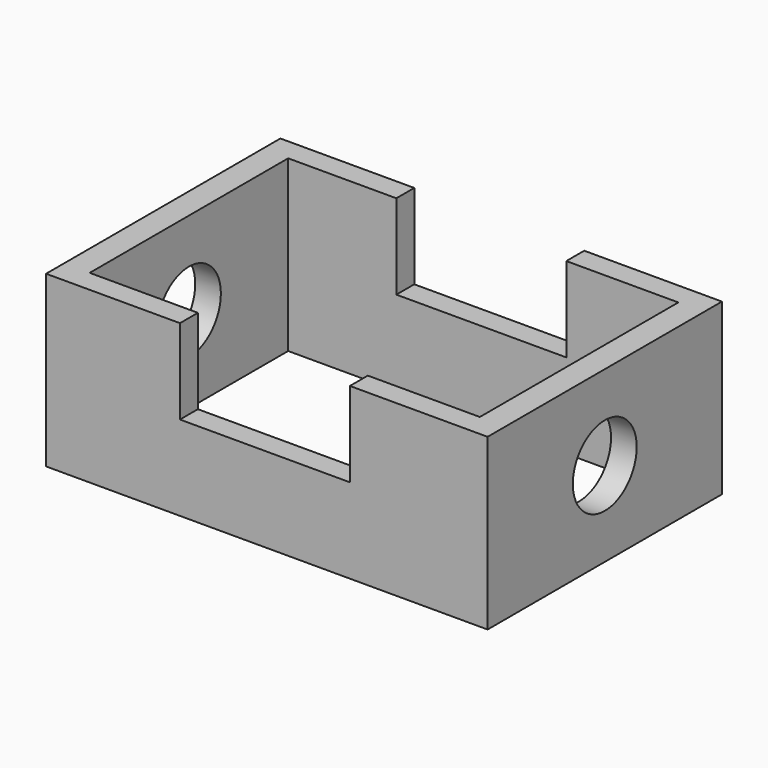
from build123d import *

# Parameters (mm, degrees)
F0_W     = 198.306992
F0_H     = 131.550192
F1_DEPTH = 76.2
F2_W     = 175.236628
F2_H     = 111.424976
F3_DEPTH = 76.201
F4_R     = 17.935486
F5_DEPTH = 198.307993
F6_W     = 76.328561
F6_H     = 10.062608
F7_DEPTH = 38.1


with BuildPart() as f1:
    # F0 (on Top) → F1 (new body)
    with BuildSketch(Plane.XY):
        Rectangle(F0_W, F0_H)
    extrude(amount=F1_DEPTH)

    # F2 (on face) → F3 (cut, through all)
    with BuildSketch(Plane.XY.offset(76.2)):
        Rectangle(F2_W, F2_H)
    extrude(amount=-F3_DEPTH, mode=Mode.SUBTRACT)

    # F4 (on face) → F5 (cut, through all)
    with BuildSketch(Plane.YZ.offset(99.153496)):
        with Locations((0, 38.1)):
            Circle(F4_R)
    extrude(amount=-F5_DEPTH, mode=Mode.SUBTRACT)

    # F6 (on face) → F7 (cut)
    with BuildSketch(Plane.XY.offset(76.2)):
        with Locations((-0.859004, 60.743792)):
            Rectangle(F6_W, F6_H)
        with Locations((-0.859004, -60.743792)):
            Rectangle(F6_W, F6_H)
    extrude(amount=-F7_DEPTH, mode=Mode.SUBTRACT)


solid = f1.part
